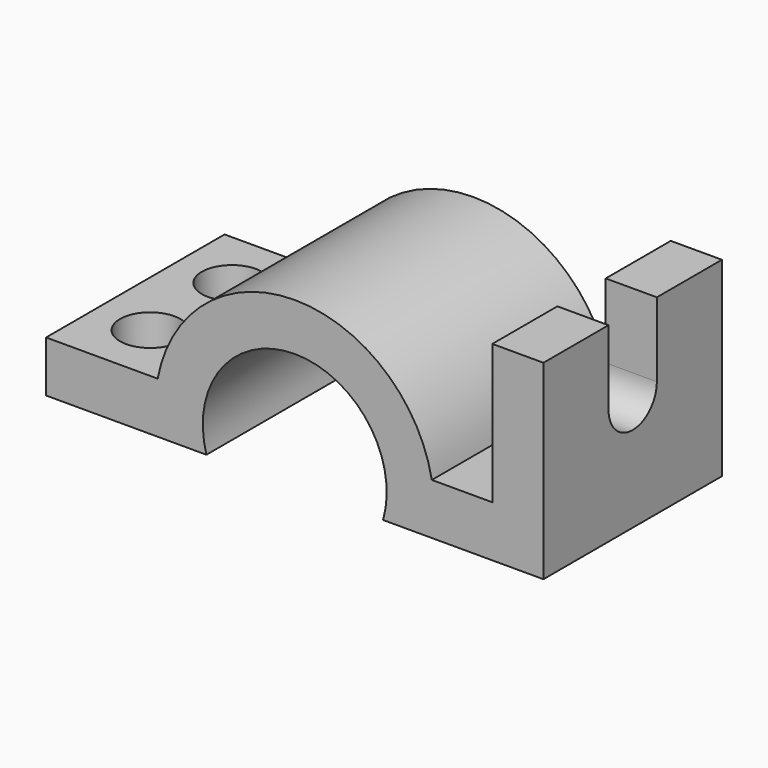
from build123d import *

# Parameters (mm, degrees)
F1_DEPTH = 48
F2_R     = 6.5
F3_DEPTH = 11
F5_W     = 13
F5_H     = 16
F6_DEPTH = 12


with BuildPart() as f1:
    # F0 (on Front) → F1 (new body)
    with BuildSketch(Plane.XZ):
        with BuildLine():
            ThreePointArc((-19, -5.5), (0, 19.78004), (19, -5.5))
            Line((19, -5.5), (53.5, -5.5))
            Line((53.5, -5.5), (53.5, 5.5))
            Line((53.5, 5.5), (53.5, 35.5))
            Line((53.5, 35.5), (42.5, 35.5))
            Line((42.5, 35.5), (42.5, 5.5))
            Line((42.5, 5.5), (29.491524, 5.5))
            ThreePointArc((29.491524, 5.5), (0, 30), (-29.491524, 5.5))
            Line((-29.491524, 5.5), (-53.5, 5.5))
            Line((-53.5, 5.5), (-53.5, -5.5))
            Line((-53.5, -5.5), (-19, -5.5))
        make_face()
    extrude(amount=F1_DEPTH)

    # F2 (on face) → F3 (cut)
    with BuildSketch(Plane.XY.offset(5.5)):
        with Locations((-41.495762, -35)):
            Circle(F2_R)
        with Locations((-41.495762, -13)):
            Circle(F2_R)
    extrude(amount=-F3_DEPTH, mode=Mode.SUBTRACT)

    # F5 (on face) → F6 (cut)
    with BuildSketch(Plane.YZ.offset(53.5)):
        with BuildLine():
            Line((-17.5, 19.5), (-30.5, 19.5))
            ThreePointArc((-30.5, 19.5), (-24, 13), (-17.5, 19.5))
        make_face()
        with Locations((-24, 27.5)):
            Rectangle(F5_W, F5_H)
    extrude(amount=-F6_DEPTH, mode=Mode.SUBTRACT)


solid = f1.part
